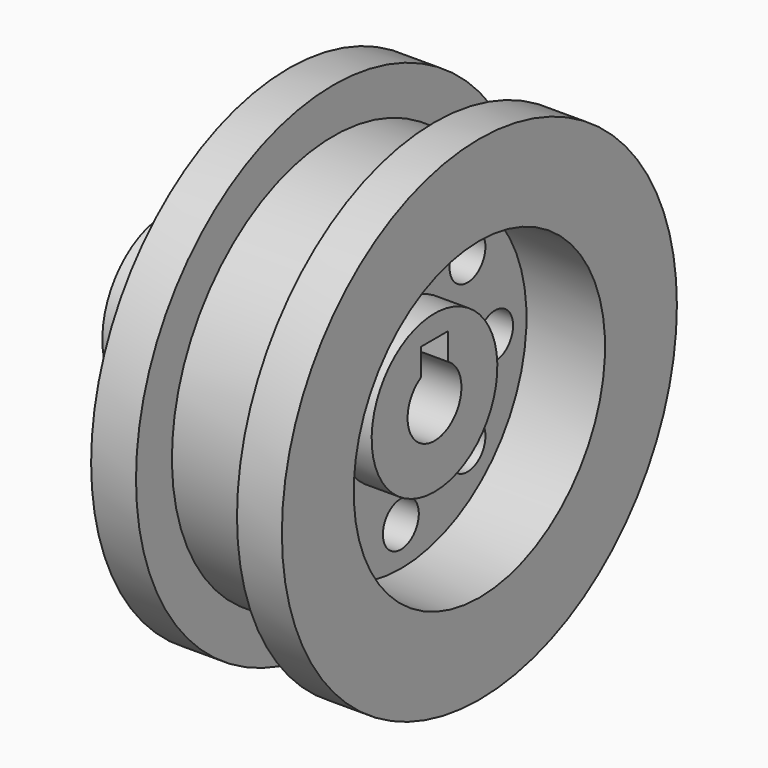
from build123d import *

# Parameters (mm, degrees)
F3_DEPTH = 711.201
F5_D     = 101.6


with BuildPart() as f1:
    # F0 (on Front) → F1 (revolve)
    with BuildSketch(Plane.XZ):
        with BuildLine():
            Line((801.302386, -76.2), (191.702386, -76.2))
            Line((191.702386, -76.2), (191.702386, -177.8))
            Line((191.702386, -177.8), (623.502386, -177.8))
            ThreePointArc((623.502386, -177.8), (641.304548, -195.602162), (623.502386, -213.404324))
            Line((623.502386, -213.404324), (623.502386, -319.995676))
            ThreePointArc((623.502386, -319.995676), (641.304548, -337.797838), (623.502386, -355.6))
            Line((623.502386, -355.6), (471.102386, -355.6))
            Line((471.102386, -355.6), (471.102386, -558.8))
            Line((471.102386, -558.8), (572.702386, -558.8))
            Line((572.702386, -558.8), (572.702386, -457.2))
            Line((572.702386, -457.2), (801.302386, -457.2))
            Line((801.302386, -457.2), (801.302386, -558.8))
            Line((801.302386, -558.8), (902.902386, -558.8))
            Line((902.902386, -558.8), (902.902386, -355.6))
            Line((902.902386, -355.6), (725.102386, -355.6))
            Line((725.102386, -355.6), (725.102386, -177.8))
            Line((725.102386, -177.8), (801.302386, -177.8))
            Line((801.302386, -177.8), (801.302386, -76.2))
        make_face()
    revolve(axis=Axis((352.317811, 0, 0), (1, 0, 0)))

    # F2 (on face) → F3 (cut, through all)
    with BuildSketch(Plane(origin=(191.702386, 0, 0), x_dir=(0, -1, 0), z_dir=(-1, 0, 0))):
        with BuildLine():
            Line((38.1, 127), (0, 127))
            Line((0, 127), (-38.1, 127))
            Line((-38.1, 127), (-38.1, 65.991136))
            ThreePointArc((-38.1, 65.991136), (0, 76.2), (38.1, 65.991136))
            Line((38.1, 65.991136), (38.1, 127))
        make_face()
    extrude(amount=-F3_DEPTH, mode=Mode.SUBTRACT)

    # F5 (through all)
    with Locations(Plane(origin=(0, 0, 0), x_dir=(0, 1, 0), z_dir=(-1, 0, 0))):
        with Locations((0, 266.7), (188.585379, 188.585379), (266.7, 0), (188.585379, -188.585379), (0, -266.7), (-188.585379, -188.585379), (-266.7, 0), (-188.585379, 188.585379)):
            Hole(F5_D / 2)


solid = f1.part
